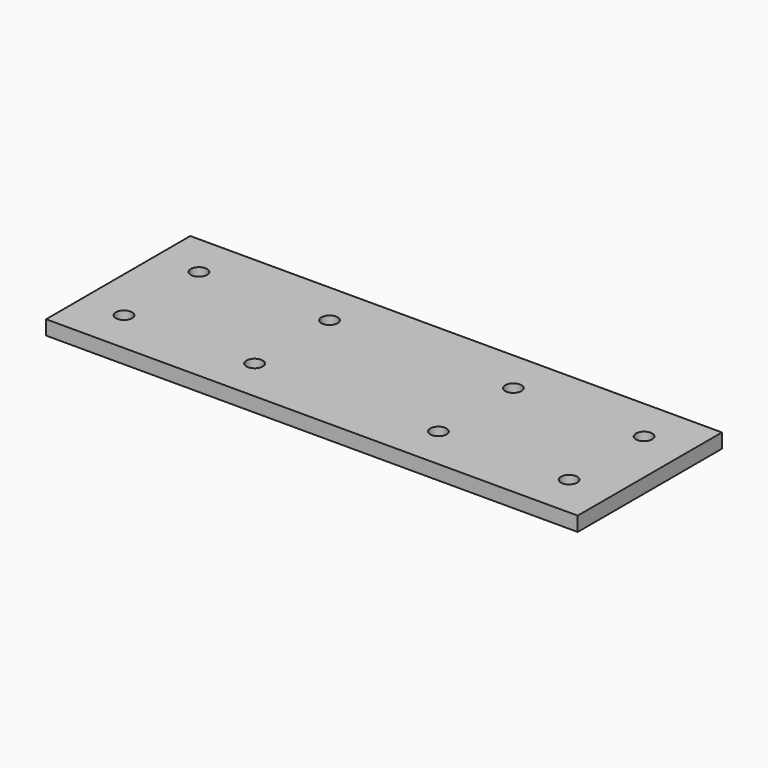
from build123d import *

# Parameters (mm, degrees)
F0_W     = 149.86
F0_H     = 50.8
F1_DEPTH = 4.064
F3_D     = 4.572


with BuildPart() as f1:
    # F0 (on Top) → F1 (new body)
    with BuildSketch(Plane.XY):
        Rectangle(F0_W, F0_H)
    extrude(amount=F1_DEPTH)

    # F3 (through all)
    with Locations(Plane.XY.offset(4.064)):
        with Locations((-62.738, 13.208), (-25.908, 13.208), (-25.908, -13.208), (-62.738, -13.208), (25.908, 13.208), (62.738, 13.208), (62.738, -13.208), (25.908, -13.208)):
            Hole(F3_D / 2)


solid = f1.part
